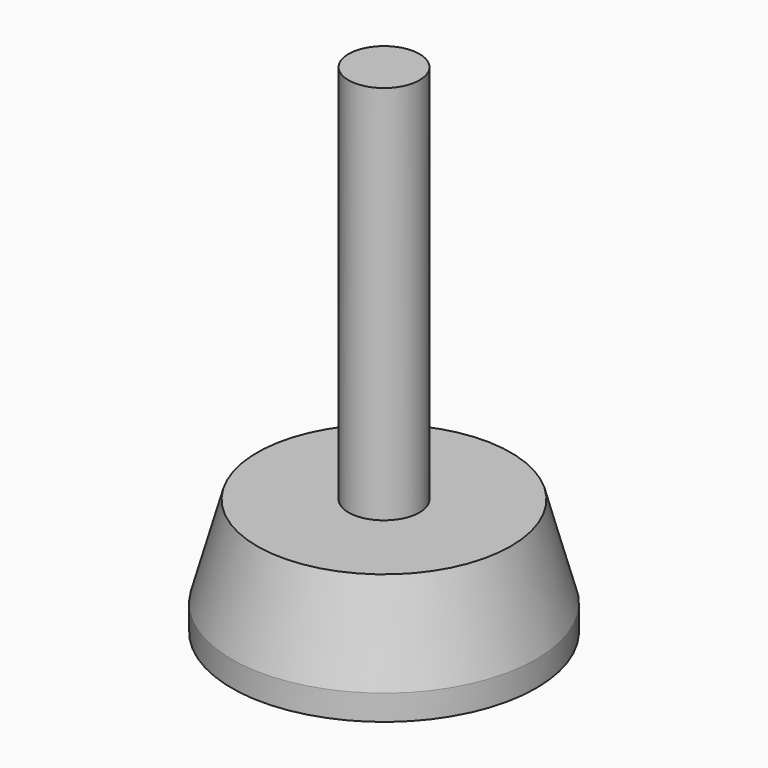
from build123d import *

# Parameters (mm, degrees)
F0_W = 7
F0_H = 75


with BuildPart() as f1:
    # F0 (on Front) → F1 (revolve)
    with BuildSketch(Plane.XZ):
        Polygon((0, 23), (0, 0), (30, 0), (30, 5), (25, 23), (7, 23), align=None)
        with Locations((3.5, 60.5)):
            Rectangle(F0_W, F0_H)
    revolve(axis=Axis((0, 0, 49), (0, 0, 1)))


solid = f1.part
